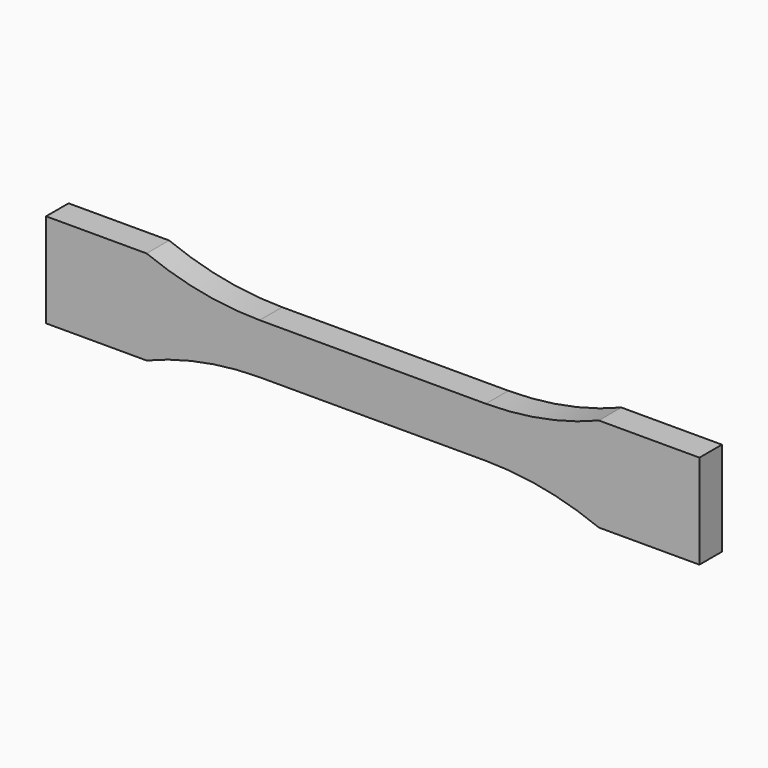
from build123d import *

# Parameters (mm, degrees)
F1_DEPTH = 7.112


with BuildPart() as f1:
    # F0 (on Front) → F1 (new body)
    with BuildSketch(Plane.XZ):
        with BuildLine():
            Line((28.575, 6.35), (0, 6.35))
            Line((0, 6.35), (-28.575, 6.35))
            ThreePointArc((-28.575, 6.35), (-43.130515, 7.753095), (-57.15, 11.910709))
            Line((-57.15, 11.910709), (-82.55, 11.910709))
            Line((-82.55, 11.910709), (-82.55, -11.910709))
            Line((-82.55, -11.910709), (-57.15, -11.910709))
            ThreePointArc((-57.15, -11.910709), (-43.130515, -7.753095), (-28.575, -6.35))
            Line((-28.575, -6.35), (0, -6.35))
            Line((0, -6.35), (28.575, -6.35))
            ThreePointArc((28.575, -6.35), (43.130515, -7.753095), (57.15, -11.910709))
            Line((57.15, -11.910709), (82.55, -11.910709))
            Line((82.55, -11.910709), (82.55, 11.910709))
            Line((82.55, 11.910709), (57.15, 11.910709))
            ThreePointArc((57.15, 11.910709), (43.130515, 7.753095), (28.575, 6.35))
        make_face()
    extrude(amount=F1_DEPTH)


solid = f1.part
